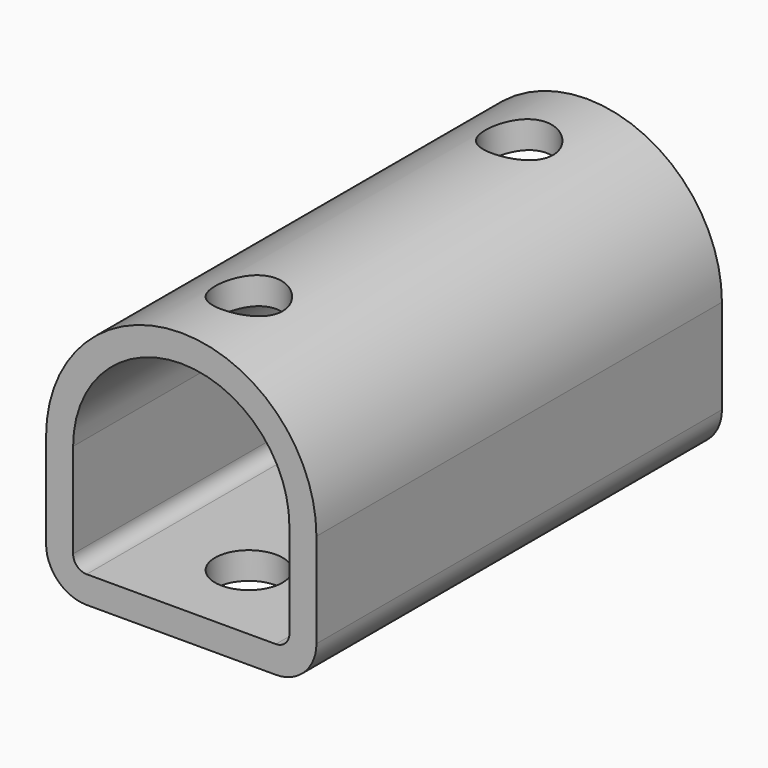
from build123d import *

# Parameters (mm, degrees)
F1_DEPTH = 1905
F2_R     = 127
F3_DEPTH = 1016.001


with BuildPart() as f1:
    # F0 (on Front) → F1 (new body)
    with BuildSketch(Plane.XZ):
        with BuildLine():
            Line((508, 152.4), (508, 508))
            ThreePointArc((508, 508), (0, 1016), (-508, 508))
            Line((-508, 508), (-508, 152.4))
            ThreePointArc((-508, 152.4), (-463.363073, 44.636927), (-355.6, 0))
            Line((-355.6, 0), (0, 0))
            Line((0, 0), (355.6, 0))
            ThreePointArc((355.6, 0), (463.363073, 44.636927), (508, 152.4))
        make_face()
        with BuildLine():
            ThreePointArc((-406.4, 508), (0, 914.4), (406.4, 508))
            Line((406.4, 508), (406.4, 152.4))
            ThreePointArc((406.4, 152.4), (391.521024, 116.478976), (355.6, 101.6))
            Line((355.6, 101.6), (0, 101.6))
            Line((0, 101.6), (-355.6, 101.6))
            ThreePointArc((-355.6, 101.6), (-391.521024, 116.478976), (-406.4, 152.4))
            Line((-406.4, 152.4), (-406.4, 508))
        make_face(mode=Mode.SUBTRACT)
    extrude(amount=F1_DEPTH)

    # F2 (on face) → F3 (cut, through all)
    with BuildSketch(Plane(origin=(0, 0, 0), x_dir=(1, 0, 0), z_dir=(0, 0, -1))):
        with Locations((0, 1587.5)):
            Circle(F2_R)
        with Locations((0, 317.5)):
            Circle(F2_R)
    extrude(amount=-F3_DEPTH, mode=Mode.SUBTRACT)


solid = f1.part
